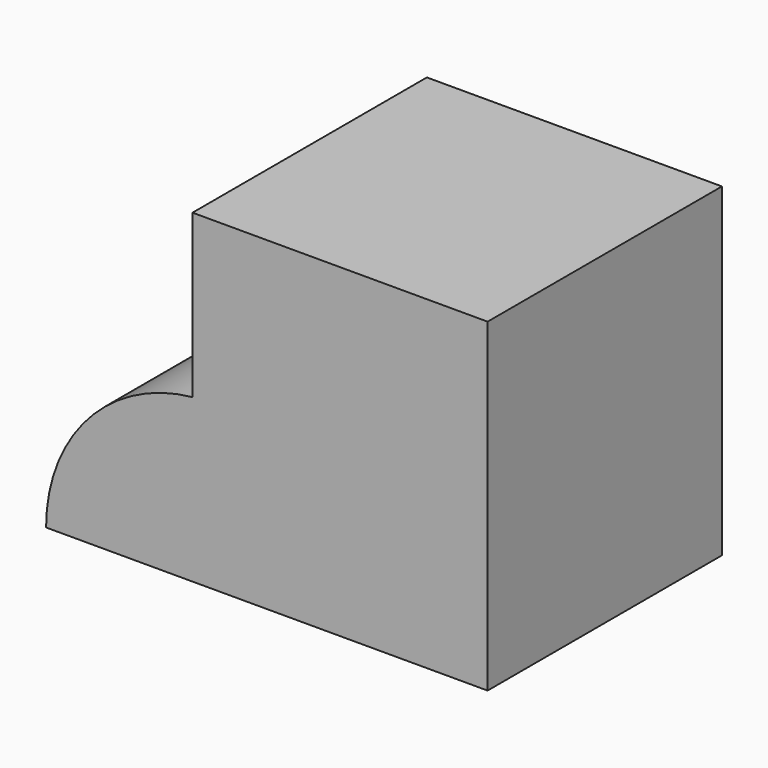
from build123d import *

# Parameters (mm, degrees)
F0_W     = 51.175846
F0_H     = 56.331623
F1_DEPTH = 50.8
F2_W     = 50.8
F2_H     = 28.165812
F3_DEPTH = 25.4
F5_DEPTH = 50.8


with BuildPart() as f1:
    # F0 (on Front) → F1 (new body)
    with BuildSketch(Plane.XZ):
        with Locations((-1.718593, 28.165812)):
            Rectangle(F0_W, F0_H)
    extrude(amount=F1_DEPTH)

    # F2 (on face) → F3 (join)
    with BuildSketch(Plane(origin=(-27.306516, 0, 0), x_dir=(0, -1, 0), z_dir=(-1, 0, 0))):
        with Locations((25.4, 14.082906)):
            Rectangle(F2_W, F2_H)
    extrude(amount=F3_DEPTH)

    # F4 (on face) → F5 (cut)
    with BuildSketch(Plane.XZ.offset(50.8)):
        with BuildLine():
            ThreePointArc((-52.706516, 0), (-45.418673, 18.963603), (-27.306516, 28.165812))
            Line((-27.306516, 28.165812), (-52.706516, 28.165812))
            Line((-52.706516, 28.165812), (-52.706516, 0))
        make_face()
    extrude(amount=-F5_DEPTH, mode=Mode.SUBTRACT)


solid = f1.part
